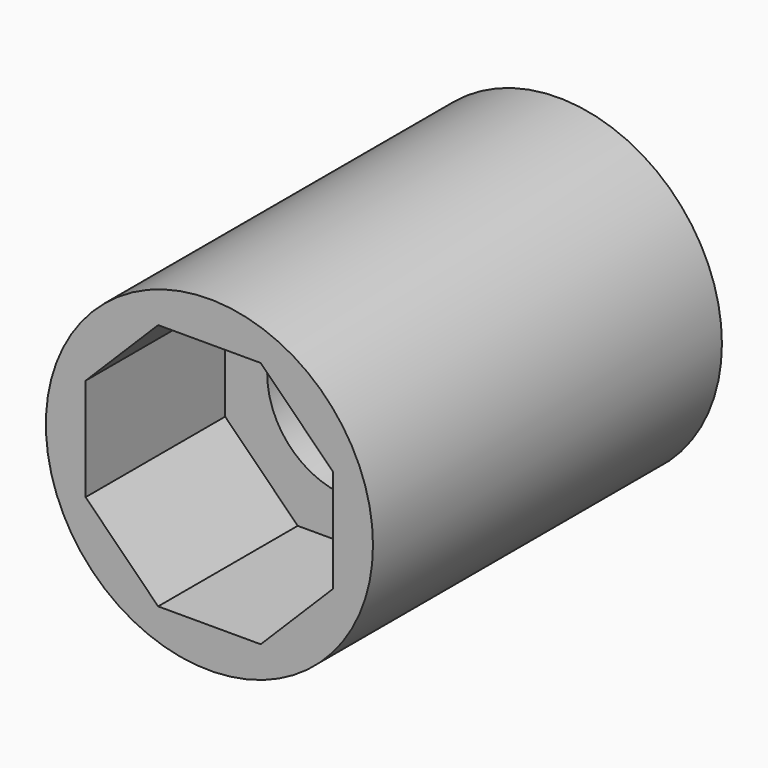
from build123d import *

# Parameters (mm, degrees)
F0_R     = 9.525
F1_DEPTH = 25.4
F3_DEPTH = 25.401
F4_DEPTH = 12.7
F6_DEPTH = 10.16


with BuildPart() as f1:
    # F0 (on Front) → F1 (new body)
    with BuildSketch(Plane.XZ):
        Circle(F0_R)
    extrude(amount=F1_DEPTH)

    # F2 (on Front) → F3 (cut, through all)
    with BuildSketch(Plane.XZ):
        with BuildLine():
            ThreePointArc((4.7625, 0), (3.367596, 3.367596), (0, 4.7625))
            ThreePointArc((0, 4.7625), (-3.367596, 3.367596), (-4.7625, 0))
            ThreePointArc((-4.7625, 0), (-3.367596, -3.367596), (0, -4.7625))
            ThreePointArc((0, -4.7625), (3.367596, -3.367596), (4.7625, 0))
        make_face()
    extrude(amount=F3_DEPTH, mode=Mode.SUBTRACT)

    # F2 (on Front) → F4 (cut)
    with BuildSketch(Plane.XZ):
        with BuildLine():
            Line((4.7625, 0), (4.7625, 4.7625))
            Line((4.7625, 4.7625), (0, 4.7625))
            ThreePointArc((0, 4.7625), (3.367596, 3.367596), (4.7625, 0))
        make_face()
        with BuildLine():
            ThreePointArc((-4.7625, 0), (-3.367596, 3.367596), (0, 4.7625))
            Line((0, 4.7625), (-4.7625, 4.7625))
            Line((-4.7625, 4.7625), (-4.7625, 0))
        make_face()
        with BuildLine():
            Line((4.7625, -4.7625), (4.7625, 0))
            ThreePointArc((4.7625, 0), (3.367596, -3.367596), (0, -4.7625))
            Line((0, -4.7625), (4.7625, -4.7625))
        make_face()
        with BuildLine():
            ThreePointArc((0, -4.7625), (-3.367596, -3.367596), (-4.7625, 0))
            Line((-4.7625, 0), (-4.7625, -4.7625))
            Line((-4.7625, -4.7625), (0, -4.7625))
        make_face()
    extrude(amount=F4_DEPTH, mode=Mode.SUBTRACT)

    # F5 (on face) → F6 (cut)
    with BuildSketch(Plane.XZ.offset(25.4)):
        Polygon((2.986736, 7.210618), (-2.986736, 7.210618), (-7.210618, 2.986736), (-7.210618, -2.986736), (-2.986736, -7.210618), (2.986736, -7.210618), (7.210618, -2.986736), (7.210618, 2.986736), align=None)
    extrude(amount=-F6_DEPTH, mode=Mode.SUBTRACT)


solid = f1.part
